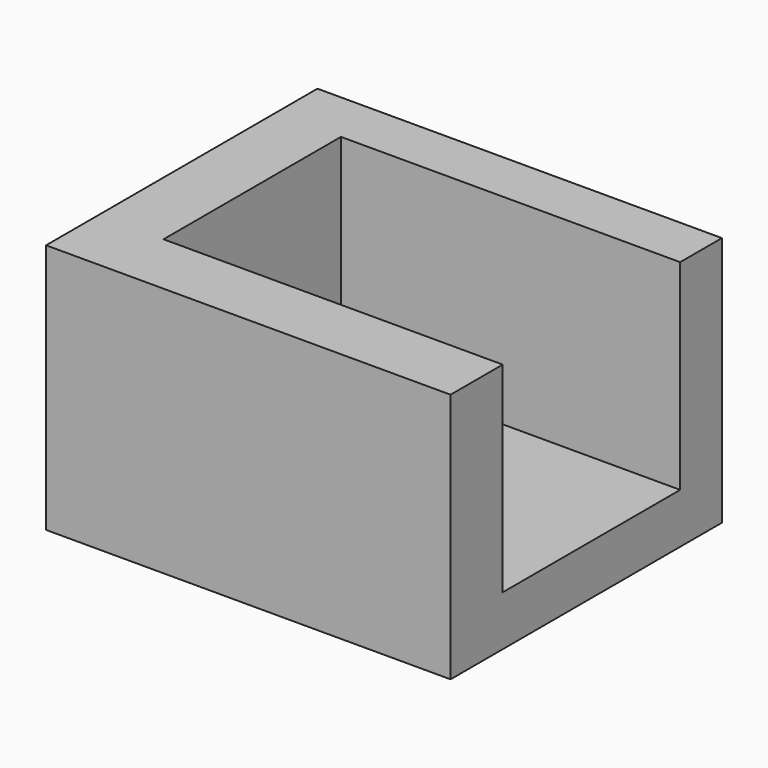
from build123d import *

# Parameters (mm, degrees)
F0_W     = 40.996857
F0_H     = 34.384463
F1_DEPTH = 25.4
F2_W     = 34.38446
F2_H     = 22.48215
F3_DEPTH = 20.32
F4_R     = 5.08


with BuildPart() as f1:
    # F0 (on Top) → F1 (new body)
    with BuildSketch(Plane.XY):
        with Locations((20.498428, 17.192231)):
            Rectangle(F0_W, F0_H)
    extrude(amount=F1_DEPTH)

    # F2 (on face) → F3 (cut)
    with BuildSketch(Plane.XY.offset(25.4)):
        with Locations((23.804627, 17.853472)):
            Rectangle(F2_W, F2_H)
    extrude(amount=-F3_DEPTH, mode=Mode.SUBTRACT)

    # F4
    f4_edges = [f1.edges().sort_by_distance(p)[0] for p in [
        (6.612397, 17.853472, 5.08),
    ]]
    fillet(f4_edges, radius=F4_R)


solid = f1.part
